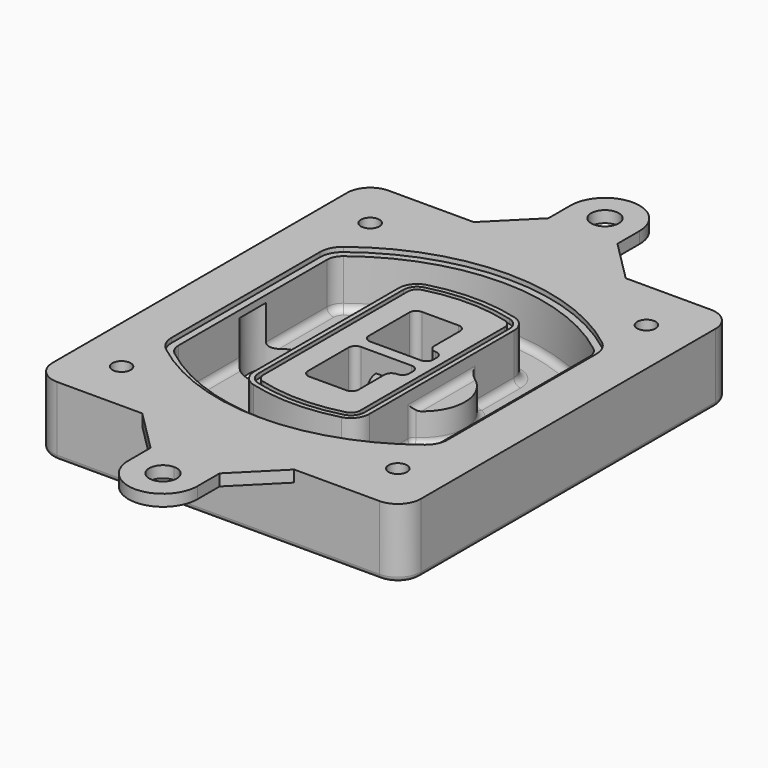
from build123d import *

# Parameters (mm, degrees)
F0_R      = 4
F1_DEPTH  = 25
F2_DEPTH  = 3
F3_DEPTH  = 18
F5_DEPTH  = 21
F6_DEPTH  = 2
F8_DEPTH  = 20
F9_DEPTH  = 16
F10_DEPTH = 25
F7_R      = 6
F7_R_2    = 4
F11_DEPTH = 6
F13_DEPTH = 9
F14_R     = 3
F15_R     = 2
F16_R     = 4
F17_DEPTH = 5


with BuildPart() as f1:
    # F0 (on Top) → F1 (new body)
    with BuildSketch(Plane.XY):
        with BuildLine():
            ThreePointArc((-80, -80), (-77.0710678119, -87.0710678119), (-70, -90))
            Line((-70, -90), (70, -90))
            ThreePointArc((70, -90), (77.0710678119, -87.0710678119), (80, -80))
            Line((80, -80), (80, 80))
            ThreePointArc((80, 80), (77.0710678119, 87.0710678119), (70, 90))
            Line((70, 90), (-70, 90))
            ThreePointArc((-70, 90), (-77.0710678119, 87.0710678119), (-80, 80))
            Line((-80, 80), (-80, -80))
        make_face()
        with Locations((-60, -67.5)):
            Circle(F0_R, mode=Mode.SUBTRACT)
        with Locations((60, -67.5)):
            Circle(F0_R, mode=Mode.SUBTRACT)
        with BuildLine():
            ThreePointArc((-64, 40.2934422872), (-62.5820384798, 46.4328484224), (-58.6153846154, 51.3286200352))
            ThreePointArc((-58.6153846154, 51.3286200352), (0, 71.5), (58.6153846154, 51.3286200352))
            ThreePointArc((58.6153846154, 51.3286200352), (62.5820384798, 46.4328484224), (64, 40.2934422872))
            Line((64, 40.2934422872), (64, -40.2934422872))
            ThreePointArc((64, -40.2934422872), (62.5820384798, -46.4328484224), (58.6153846154, -51.3286200352))
            ThreePointArc((58.6153846154, -51.3286200352), (0, -71.5), (-58.6153846154, -51.3286200352))
            ThreePointArc((-58.6153846154, -51.3286200352), (-62.5820384798, -46.4328484224), (-64, -40.2934422872))
            Line((-64, -40.2934422872), (-64, 40.2934422872))
        make_face(mode=Mode.SUBTRACT)
        with Locations((-60, 67.5)):
            Circle(F0_R, mode=Mode.SUBTRACT)
        with Locations((60, 67.5)):
            Circle(F0_R, mode=Mode.SUBTRACT)
        with BuildLine():
            ThreePointArc((58.6153846154, 51.3286200352), (0, 71.5), (-58.6153846154, 51.3286200352))
            ThreePointArc((-58.6153846154, 51.3286200352), (-62.5820384798, 46.4328484224), (-64, 40.2934422872))
            Line((-64, 40.2934422872), (-64, -40.2934422872))
            ThreePointArc((-64, -40.2934422872), (-62.5820384798, -46.4328484224), (-58.6153846154, -51.3286200352))
            ThreePointArc((-58.6153846154, -51.3286200352), (0, -71.5), (58.6153846154, -51.3286200352))
            ThreePointArc((58.6153846154, -51.3286200352), (62.5820384798, -46.4328484224), (64, -40.2934422872))
            Line((64, -40.2934422872), (64, 40.2934422872))
            ThreePointArc((64, 40.2934422872), (62.5820384798, 46.4328484224), (58.6153846154, 51.3286200352))
        make_face()
        with BuildLine():
            Line((-60, -40.2934422872), (-60, 40.2934422872))
            ThreePointArc((-60, 40.2934422872), (-58.9871703427, 44.6787323838), (-56.1538461538, 48.1757121072))
            ThreePointArc((-56.1538461538, 48.1757121072), (0, 67.5), (56.1538461538, 48.1757121072))
            ThreePointArc((56.1538461538, 48.1757121072), (58.9871703427, 44.6787323838), (60, 40.2934422872))
            Line((60, 40.2934422872), (60, -40.2934422872))
            ThreePointArc((60, -40.2934422872), (58.9871703427, -44.6787323838), (56.1538461538, -48.1757121072))
            ThreePointArc((56.1538461538, -48.1757121072), (0, -67.5), (-56.1538461538, -48.1757121072))
            ThreePointArc((-56.1538461538, -48.1757121072), (-58.9871703427, -44.6787323838), (-60, -40.2934422872))
        make_face(mode=Mode.SUBTRACT)
        with BuildLine():
            ThreePointArc((-56.1538461538, 48.1757121072), (-58.9871703427, 44.6787323838), (-60, 40.2934422872))
            Line((-60, 40.2934422872), (-60, -40.2934422872))
            ThreePointArc((-60, -40.2934422872), (-58.9871703427, -44.6787323838), (-56.1538461538, -48.1757121072))
            ThreePointArc((-56.1538461538, -48.1757121072), (0, -67.5), (56.1538461538, -48.1757121072))
            ThreePointArc((56.1538461538, -48.1757121072), (58.9871703427, -44.6787323838), (60, -40.2934422872))
            Line((60, -40.2934422872), (60, 40.2934422872))
            ThreePointArc((60, 40.2934422872), (58.9871703427, 44.6787323838), (56.1538461538, 48.1757121072))
            ThreePointArc((56.1538461538, 48.1757121072), (0, 67.5), (-56.1538461538, 48.1757121072))
        make_face()
        with BuildLine():
            ThreePointArc((54.3076923077, 45.8110311612), (56.2910192399, 43.3631453548), (57, 40.2934422872))
            Line((57, 40.2934422872), (57, -40.2934422872))
            ThreePointArc((57, -40.2934422872), (56.2910192399, -43.3631453548), (54.3076923077, -45.8110311612))
            ThreePointArc((54.3076923077, -45.8110311612), (0, -64.5), (-54.3076923077, -45.8110311612))
            ThreePointArc((-54.3076923077, -45.8110311612), (-56.2910192399, -43.3631453548), (-57, -40.2934422872))
            Line((-57, -40.2934422872), (-57, 40.2934422872))
            ThreePointArc((-57, 40.2934422872), (-56.2910192399, 43.3631453548), (-54.3076923077, 45.8110311612))
            ThreePointArc((-54.3076923077, 45.8110311612), (0, 64.5), (54.3076923077, 45.8110311612))
        make_face(mode=Mode.SUBTRACT)
        with BuildLine():
            Line((57, -40.2934422872), (57, 40.2934422872))
            ThreePointArc((57, 40.2934422872), (56.2910192399, 43.3631453548), (54.3076923077, 45.8110311612))
            ThreePointArc((54.3076923077, 45.8110311612), (0, 64.5), (-54.3076923077, 45.8110311612))
            ThreePointArc((-54.3076923077, 45.8110311612), (-56.2910192399, 43.3631453548), (-57, 40.2934422872))
            Line((-57, 40.2934422872), (-57, -40.2934422872))
            ThreePointArc((-57, -40.2934422872), (-56.2910192399, -43.3631453548), (-54.3076923077, -45.8110311612))
            ThreePointArc((-54.3076923077, -45.8110311612), (0, -64.5), (54.3076923077, -45.8110311612))
            ThreePointArc((54.3076923077, -45.8110311612), (56.2910192399, -43.3631453548), (57, -40.2934422872))
        make_face()
    extrude(amount=-F1_DEPTH)

    # F0 (on Top) → F2 (join)
    with BuildSketch(Plane.XY):
        with BuildLine():
            ThreePointArc((-56.1538461538, 48.1757121072), (-58.9871703427, 44.6787323838), (-60, 40.2934422872))
            Line((-60, 40.2934422872), (-60, -40.2934422872))
            ThreePointArc((-60, -40.2934422872), (-58.9871703427, -44.6787323838), (-56.1538461538, -48.1757121072))
            ThreePointArc((-56.1538461538, -48.1757121072), (0, -67.5), (56.1538461538, -48.1757121072))
            ThreePointArc((56.1538461538, -48.1757121072), (58.9871703427, -44.6787323838), (60, -40.2934422872))
            Line((60, -40.2934422872), (60, 40.2934422872))
            ThreePointArc((60, 40.2934422872), (58.9871703427, 44.6787323838), (56.1538461538, 48.1757121072))
            ThreePointArc((56.1538461538, 48.1757121072), (0, 67.5), (-56.1538461538, 48.1757121072))
        make_face()
        with BuildLine():
            ThreePointArc((54.3076923077, 45.8110311612), (56.2910192399, 43.3631453548), (57, 40.2934422872))
            Line((57, 40.2934422872), (57, -40.2934422872))
            ThreePointArc((57, -40.2934422872), (56.2910192399, -43.3631453548), (54.3076923077, -45.8110311612))
            ThreePointArc((54.3076923077, -45.8110311612), (0, -64.5), (-54.3076923077, -45.8110311612))
            ThreePointArc((-54.3076923077, -45.8110311612), (-56.2910192399, -43.3631453548), (-57, -40.2934422872))
            Line((-57, -40.2934422872), (-57, 40.2934422872))
            ThreePointArc((-57, 40.2934422872), (-56.2910192399, 43.3631453548), (-54.3076923077, 45.8110311612))
            ThreePointArc((-54.3076923077, 45.8110311612), (0, 64.5), (54.3076923077, 45.8110311612))
        make_face(mode=Mode.SUBTRACT)
    extrude(amount=F2_DEPTH)

    # F0 (on Top) → F3 (cut)
    with BuildSketch(Plane.XY):
        with BuildLine():
            Line((57, -40.2934422872), (57, 40.2934422872))
            ThreePointArc((57, 40.2934422872), (56.2910192399, 43.3631453548), (54.3076923077, 45.8110311612))
            ThreePointArc((54.3076923077, 45.8110311612), (0, 64.5), (-54.3076923077, 45.8110311612))
            ThreePointArc((-54.3076923077, 45.8110311612), (-56.2910192399, 43.3631453548), (-57, 40.2934422872))
            Line((-57, 40.2934422872), (-57, -40.2934422872))
            ThreePointArc((-57, -40.2934422872), (-56.2910192399, -43.3631453548), (-54.3076923077, -45.8110311612))
            ThreePointArc((-54.3076923077, -45.8110311612), (0, -64.5), (54.3076923077, -45.8110311612))
            ThreePointArc((54.3076923077, -45.8110311612), (56.2910192399, -43.3631453548), (57, -40.2934422872))
        make_face()
    extrude(amount=-F3_DEPTH, mode=Mode.SUBTRACT)

    # F4 (on face) → F5 (join, through all)
    with BuildSketch(Plane.XY.offset(3)):
        with BuildLine():
            ThreePointArc((-25, -39.2465276821), (-23.3511545998, -44.1109737193), (-19.0842911877, -46.9702398883))
            ThreePointArc((-19.0842911877, -46.9702398883), (0, -49.5), (19.0842911877, -46.9702398883))
            ThreePointArc((19.0842911877, -46.9702398883), (23.3511545998, -44.1109737193), (25, -39.2465276821))
            Line((25, -39.2465276821), (25, 39.2465276821))
            ThreePointArc((25, 39.2465276821), (23.3511545998, 44.1109737193), (19.0842911877, 46.9702398883))
            ThreePointArc((19.0842911877, 46.9702398883), (0, 49.5), (-19.0842911877, 46.9702398883))
            ThreePointArc((-19.0842911877, 46.9702398883), (-23.3511545998, 44.1109737193), (-25, 39.2465276821))
            Line((-25, 39.2465276821), (-25, -39.2465276821))
        make_face()
        with BuildLine():
            ThreePointArc((18.5632183908, 45.0393118368), (21.7633659499, 42.89486221), (23, 39.2465276821))
            Line((23, 39.2465276821), (23, -39.2465276821))
            ThreePointArc((23, -39.2465276821), (21.7633659499, -42.89486221), (18.5632183908, -45.0393118368))
            ThreePointArc((18.5632183908, -45.0393118368), (0, -47.5), (-18.5632183908, -45.0393118368))
            ThreePointArc((-18.5632183908, -45.0393118368), (-21.7633659499, -42.89486221), (-23, -39.2465276821))
            Line((-23, -39.2465276821), (-23, 39.2465276821))
            ThreePointArc((-23, 39.2465276821), (-21.7633659499, 42.89486221), (-18.5632183908, 45.0393118368))
            ThreePointArc((-18.5632183908, 45.0393118368), (0, 47.5), (18.5632183908, 45.0393118368))
        make_face(mode=Mode.SUBTRACT)
        with BuildLine():
            Line((23, -39.2465276821), (23, 39.2465276821))
            ThreePointArc((23, 39.2465276821), (21.7633659499, 42.89486221), (18.5632183908, 45.0393118368))
            ThreePointArc((18.5632183908, 45.0393118368), (0, 47.5), (-18.5632183908, 45.0393118368))
            ThreePointArc((-18.5632183908, 45.0393118368), (-21.7633659499, 42.89486221), (-23, 39.2465276821))
            Line((-23, 39.2465276821), (-23, -39.2465276821))
            ThreePointArc((-23, -39.2465276821), (-21.7633659499, -42.89486221), (-18.5632183908, -45.0393118368))
            ThreePointArc((-18.5632183908, -45.0393118368), (0, -47.5), (18.5632183908, -45.0393118368))
            ThreePointArc((18.5632183908, -45.0393118368), (21.7633659499, -42.89486221), (23, -39.2465276821))
        make_face()
        with BuildLine():
            ThreePointArc((18.0421455939, 43.1083837852), (20.1755772999, 41.6787507007), (21, 39.2465276821))
            Line((21, 39.2465276821), (21, -39.2465276821))
            ThreePointArc((21, -39.2465276821), (20.1755772999, -41.6787507007), (18.0421455939, -43.1083837852))
            ThreePointArc((18.0421455939, -43.1083837852), (0, -45.5), (-18.0421455939, -43.1083837852))
            ThreePointArc((-18.0421455939, -43.1083837852), (-20.1755772999, -41.6787507007), (-21, -39.2465276821))
            Line((-21, -39.2465276821), (-21, 39.2465276821))
            ThreePointArc((-21, 39.2465276821), (-20.1755772999, 41.6787507007), (-18.0421455939, 43.1083837852))
            ThreePointArc((-18.0421455939, 43.1083837852), (0, 45.5), (18.0421455939, 43.1083837852))
        make_face(mode=Mode.SUBTRACT)
        with BuildLine():
            Line((21, -39.2465276821), (21, 39.2465276821))
            ThreePointArc((21, 39.2465276821), (20.1755772999, 41.6787507007), (18.0421455939, 43.1083837852))
            ThreePointArc((18.0421455939, 43.1083837852), (0, 45.5), (-18.0421455939, 43.1083837852))
            ThreePointArc((-18.0421455939, 43.1083837852), (-20.1755772999, 41.6787507007), (-21, 39.2465276821))
            Line((-21, 39.2465276821), (-21, -39.2465276821))
            ThreePointArc((-21, -39.2465276821), (-20.1755772999, -41.6787507007), (-18.0421455939, -43.1083837852))
            ThreePointArc((-18.0421455939, -43.1083837852), (0, -45.5), (18.0421455939, -43.1083837852))
            ThreePointArc((18.0421455939, -43.1083837852), (20.1755772999, -41.6787507007), (21, -39.2465276821))
        make_face()
        with BuildLine():
            Line((-8, -2.5), (14, -2.5))
            ThreePointArc((14, -2.5), (16.1213203436, -3.3786796564), (17, -5.5))
            Line((17, -5.5), (17, -7.5))
            ThreePointArc((17, -7.5), (16.1213203436, -9.6213203436), (14, -10.5))
            ThreePointArc((14, -10.5), (11.8786796564, -11.3786796564), (11, -13.5))
            Line((11, -13.5), (11, -27.5))
            ThreePointArc((11, -27.5), (10.1213203436, -29.6213203436), (8, -30.5))
            Line((8, -30.5), (-8, -30.5))
            ThreePointArc((-8, -30.5), (-10.1213203436, -29.6213203436), (-11, -27.5))
            Line((-11, -27.5), (-11, -5.5))
            ThreePointArc((-11, -5.5), (-10.1213203436, -3.3786796564), (-8, -2.5))
        make_face(mode=Mode.SUBTRACT)
        with BuildLine():
            ThreePointArc((-8, 2.5), (-10.1213203436, 3.3786796564), (-11, 5.5))
            Line((-11, 5.5), (-11, 27.5))
            ThreePointArc((-11, 27.5), (-10.1213203436, 29.6213203436), (-8, 30.5))
            Line((-8, 30.5), (8, 30.5))
            ThreePointArc((8, 30.5), (10.1213203436, 29.6213203436), (11, 27.5))
            Line((11, 27.5), (11, 13.5))
            ThreePointArc((11, 13.5), (11.8786796564, 11.3786796564), (14, 10.5))
            ThreePointArc((14, 10.5), (16.1213203436, 9.6213203436), (17, 7.5))
            Line((17, 7.5), (17, 5.5))
            ThreePointArc((17, 5.5), (16.1213203436, 3.3786796564), (14, 2.5))
            Line((14, 2.5), (-8, 2.5))
        make_face(mode=Mode.SUBTRACT)
    extrude(amount=-F5_DEPTH)

    # F4 (on face) → F6 (cut)
    with BuildSketch(Plane.XY.offset(3)):
        with BuildLine():
            Line((23, -39.2465276821), (23, 39.2465276821))
            ThreePointArc((23, 39.2465276821), (21.7633659499, 42.89486221), (18.5632183908, 45.0393118368))
            ThreePointArc((18.5632183908, 45.0393118368), (0, 47.5), (-18.5632183908, 45.0393118368))
            ThreePointArc((-18.5632183908, 45.0393118368), (-21.7633659499, 42.89486221), (-23, 39.2465276821))
            Line((-23, 39.2465276821), (-23, -39.2465276821))
            ThreePointArc((-23, -39.2465276821), (-21.7633659499, -42.89486221), (-18.5632183908, -45.0393118368))
            ThreePointArc((-18.5632183908, -45.0393118368), (0, -47.5), (18.5632183908, -45.0393118368))
            ThreePointArc((18.5632183908, -45.0393118368), (21.7633659499, -42.89486221), (23, -39.2465276821))
        make_face()
        with BuildLine():
            ThreePointArc((18.0421455939, 43.1083837852), (20.1755772999, 41.6787507007), (21, 39.2465276821))
            Line((21, 39.2465276821), (21, -39.2465276821))
            ThreePointArc((21, -39.2465276821), (20.1755772999, -41.6787507007), (18.0421455939, -43.1083837852))
            ThreePointArc((18.0421455939, -43.1083837852), (0, -45.5), (-18.0421455939, -43.1083837852))
            ThreePointArc((-18.0421455939, -43.1083837852), (-20.1755772999, -41.6787507007), (-21, -39.2465276821))
            Line((-21, -39.2465276821), (-21, 39.2465276821))
            ThreePointArc((-21, 39.2465276821), (-20.1755772999, 41.6787507007), (-18.0421455939, 43.1083837852))
            ThreePointArc((-18.0421455939, 43.1083837852), (0, 45.5), (18.0421455939, 43.1083837852))
        make_face(mode=Mode.SUBTRACT)
    extrude(amount=-F6_DEPTH, mode=Mode.SUBTRACT)

    # F7 (on face) → F8 (join)
    with BuildSketch(Plane(origin=(0, 0, -25), x_dir=(1, 0, 0), z_dir=(0, 0, -1))):
        with BuildLine():
            ThreePointArc((3.28842436, 0), (16.7567035675, 13.4682792075), (30.224982775, 0))
            Line((30.224982775, 0), (35.224982775, 0))
            ThreePointArc((35.224982775, 0), (16.7567035675, 18.4682792075), (-1.71157564, 0))
            Line((-1.71157564, 0), (3.28842436, 0))
        make_face()
        with BuildLine():
            Line((3.28842436, 0), (30.224982775, 0))
            ThreePointArc((30.224982775, 0), (16.7567035675, 13.4682792075), (3.28842436, 0))
        make_face()
        with BuildLine():
            ThreePointArc((3.28842436, 0), (16.7567035675, -13.4682792075), (30.224982775, 0))
            Line((30.224982775, 0), (3.28842436, 0))
        make_face()
        with BuildLine():
            Line((35.224982775, 0), (30.224982775, 0))
            ThreePointArc((30.224982775, 0), (16.7567035675, -13.4682792075), (3.28842436, 0))
            Line((3.28842436, 0), (-1.71157564, 0))
            ThreePointArc((-1.71157564, 0), (16.7567035675, -18.4682792075), (35.224982775, 0))
        make_face()
    extrude(amount=-F8_DEPTH)

    # F7 (on face) → F9 (cut)
    with BuildSketch(Plane(origin=(0, 0, -25), x_dir=(1, 0, 0), z_dir=(0, 0, -1))):
        with BuildLine():
            Line((3.28842436, 0), (30.224982775, 0))
            ThreePointArc((30.224982775, 0), (16.7567035675, 13.4682792075), (3.28842436, 0))
        make_face()
        with BuildLine():
            ThreePointArc((3.28842436, 0), (16.7567035675, -13.4682792075), (30.224982775, 0))
            Line((30.224982775, 0), (3.28842436, 0))
        make_face()
    extrude(amount=-F9_DEPTH, mode=Mode.SUBTRACT)

    # F7 (on face) → F10 (cut)
    with BuildSketch(Plane(origin=(0, 0, -25), x_dir=(1, 0, 0), z_dir=(0, 0, -1))):
        with BuildLine():
            Line((-59.0318229325, 0), (-32.0952645175, 0))
            ThreePointArc((-32.0952645175, 0), (-45.563543725, 13.4682792075), (-59.0318229325, 0))
        make_face()
        with BuildLine():
            ThreePointArc((-59.0318229325, 0), (-45.563543725, -13.4682792075), (-32.0952645175, 0))
            Line((-32.0952645175, 0), (-59.0318229325, 0))
        make_face()
    extrude(amount=-F10_DEPTH, mode=Mode.SUBTRACT)

    # F7 (on face) → F11 (cut)
    with BuildSketch(Plane(origin=(0, 0, -25), x_dir=(1, 0, 0), z_dir=(0, 0, -1))):
        with Locations((60, -67.5)):
            Circle(F7_R)
        with Locations((60, -67.5)):
            Circle(F7_R_2, mode=Mode.SUBTRACT)
        with Locations((60, -67.5)):
            Circle(F7_R)
        with Locations((60, -67.5)):
            Circle(F7_R_2, mode=Mode.SUBTRACT)
        with Locations((-60, -67.5)):
            Circle(F7_R)
        with Locations((-60, -67.5)):
            Circle(F7_R_2, mode=Mode.SUBTRACT)
        with Locations((-60, -67.5)):
            Circle(F7_R)
        with Locations((-60, -67.5)):
            Circle(F7_R_2, mode=Mode.SUBTRACT)
        with Locations((-60, 67.5)):
            Circle(F7_R)
        with Locations((-60, 67.5)):
            Circle(F7_R_2, mode=Mode.SUBTRACT)
        with Locations((-60, 67.5)):
            Circle(F7_R)
        with Locations((-60, 67.5)):
            Circle(F7_R_2, mode=Mode.SUBTRACT)
        with Locations((60, 67.5)):
            Circle(F7_R)
        with Locations((60, 67.5)):
            Circle(F7_R_2, mode=Mode.SUBTRACT)
        with Locations((60, 67.5)):
            Circle(F7_R)
        with Locations((60, 67.5)):
            Circle(F7_R_2, mode=Mode.SUBTRACT)
    extrude(amount=-F11_DEPTH, mode=Mode.SUBTRACT)

    # F12 (on face) → F13 (cut, through all)
    with BuildSketch(Plane(origin=(0, 0, -9), x_dir=(1, 0, 0), z_dir=(0, 0, -1))):
        with BuildLine():
            Line((11, 13.5), (11, 17.5481537753))
            ThreePointArc((11, 17.5481537753), (2.5696536419, 11.8239143813), (-1.5415842455, 2.5))
            Line((-1.5415842455, 2.5), (3.5224848595, 2.5))
            ThreePointArc((3.5224848595, 2.5), (6.1857188154, 8.3455872281), (11.2536447004, 12.2927168648))
            ThreePointArc((11.2536447004, 12.2927168648), (11.0640958889, 12.8831798879), (11, 13.5))
        make_face()
        with BuildLine():
            ThreePointArc((11.2536447004, -12.2927168648), (6.1857188154, -8.3455872281), (3.5224848595, -2.5))
            Line((3.5224848595, -2.5), (-1.5415842455, -2.5))
            ThreePointArc((-1.5415842455, -2.5), (2.5696536419, -11.8239143813), (11, -17.5481537753))
            Line((11, -17.5481537753), (11, -13.5))
            ThreePointArc((11, -13.5), (11.0640958889, -12.8831798879), (11.2536447004, -12.2927168648))
        make_face()
        with BuildLine():
            ThreePointArc((11.2536447004, 12.2927168648), (6.1857188154, 8.3455872281), (3.5224848595, 2.5))
            Line((3.5224848595, 2.5), (14, 2.5))
            ThreePointArc((14, 2.5), (16.1213203436, 3.3786796564), (17, 5.5))
            Line((17, 5.5), (17, 7.5))
            ThreePointArc((17, 7.5), (16.1213203436, 9.6213203436), (14, 10.5))
            ThreePointArc((14, 10.5), (12.3601599782, 10.9878446101), (11.2536447004, 12.2927168648))
        make_face()
        with BuildLine():
            Line((14, -2.5), (3.5224848595, -2.5))
            ThreePointArc((3.5224848595, -2.5), (6.1857188154, -8.3455872281), (11.2536447004, -12.2927168648))
            ThreePointArc((11.2536447004, -12.2927168648), (12.3601599782, -10.9878446101), (14, -10.5))
            ThreePointArc((14, -10.5), (16.1213203436, -9.6213203436), (17, -7.5))
            Line((17, -7.5), (17, -5.5))
            ThreePointArc((17, -5.5), (16.1213203436, -3.3786796564), (14, -2.5))
        make_face()
    extrude(amount=F13_DEPTH, mode=Mode.SUBTRACT)

    # F14
    f14_edges = [f1.edges().sort_by_distance(p)[0] for p in [
        (-57, -23.703476, -18),
        (-57, 23.703476, -18),
        (25, 0, -5),
        (25, 16.526506, -11.5),
        (25, -16.526506, -11.5),
        (25, -27.886517, -18),
        (35.224983, 0, -18),
    ]]
    fillet(f14_edges, radius=F14_R)

    # F15
    f15_edges = [f1.edges().sort_by_distance(p)[0] for p in [
        (0, -90, -25),
    ]]
    fillet(f15_edges, radius=F15_R)

    # F16 (on face) → F17 (join)
    with BuildSketch(Plane.XY):
        with BuildLine():
            Line((15, -108), (33, -90))
            Line((33, -90), (0, -90))
            Line((0, -90), (-33, -90))
            Line((-33, -90), (-15, -108))
            Line((-15, -108), (-15, -120))
            ThreePointArc((-15, -120), (0, -135), (15, -120))
            Line((15, -120), (15, -108))
        make_face()
        with BuildLine():
            ThreePointArc((6, -120), (-4.2426406871, -124.2426406871), (0, -114))
            ThreePointArc((0, -114), (4.2426406871, -115.7573593129), (6, -120))
        make_face(mode=Mode.SUBTRACT)
        with BuildLine():
            Line((33, 90), (0, 90))
            Line((0, 90), (-33, 90))
            Line((-33, 90), (-70, 90))
            ThreePointArc((-70, 90), (-77.0710678119, 87.0710678119), (-80, 80))
            Line((-80, 80), (-80, 0))
            Line((-80, 0), (-60, 0))
            Line((-60, 0), (-60, 40.2934422872))
            ThreePointArc((-60, 40.2934422872), (-58.9871703427, 44.6787323838), (-56.1538461538, 48.1757121072))
            ThreePointArc((-56.1538461538, 48.1757121072), (0, 67.5), (56.1538461538, 48.1757121072))
            ThreePointArc((56.1538461538, 48.1757121072), (58.9871703427, 44.6787323838), (60, 40.2934422872))
            Line((60, 40.2934422872), (60, 0))
            Line((60, 0), (80, 0))
            Line((80, 0), (80, 80))
            ThreePointArc((80, 80), (77.0710678119, 87.0710678119), (70, 90))
            Line((70, 90), (33, 90))
        make_face()
        with Locations((-60, 67.5)):
            Circle(F16_R, mode=Mode.SUBTRACT)
        with Locations((60, 67.5)):
            Circle(F16_R, mode=Mode.SUBTRACT)
        with BuildLine():
            Line((80, -80), (80, 0))
            Line((80, 0), (60, 0))
            Line((60, 0), (60, -40.2934422872))
            ThreePointArc((60, -40.2934422872), (58.9871703427, -44.6787323838), (56.1538461538, -48.1757121072))
            ThreePointArc((56.1538461538, -48.1757121072), (0, -67.5), (-56.1538461538, -48.1757121072))
            ThreePointArc((-56.1538461538, -48.1757121072), (-58.9871703427, -44.6787323838), (-60, -40.2934422872))
            Line((-60, -40.2934422872), (-60, 0))
            Line((-60, 0), (-80, 0))
            Line((-80, 0), (-80, -80))
            ThreePointArc((-80, -80), (-77.0710678119, -87.0710678119), (-70, -90))
            Line((-70, -90), (-33, -90))
            Line((-33, -90), (0, -90))
            Line((0, -90), (33, -90))
            Line((33, -90), (70, -90))
            ThreePointArc((70, -90), (77.0710678119, -87.0710678119), (80, -80))
        make_face()
        with Locations((-60, -67.5)):
            Circle(F16_R, mode=Mode.SUBTRACT)
        with Locations((60, -67.5)):
            Circle(F16_R, mode=Mode.SUBTRACT)
        with BuildLine():
            Line((-33, 90), (0, 90))
            Line((0, 90), (33, 90))
            Line((33, 90), (15, 108))
            Line((15, 108), (15, 120))
            ThreePointArc((15, 120), (0, 135), (-15, 120))
            Line((-15, 120), (-15, 108))
            Line((-15, 108), (-33, 90))
        make_face()
        with BuildLine():
            ThreePointArc((6, 120), (4.2426406871, 115.7573593129), (0, 114))
            ThreePointArc((0, 114), (-4.2426406871, 124.2426406871), (6, 120))
        make_face(mode=Mode.SUBTRACT)
    extrude(amount=F17_DEPTH)


solid = f1.part
